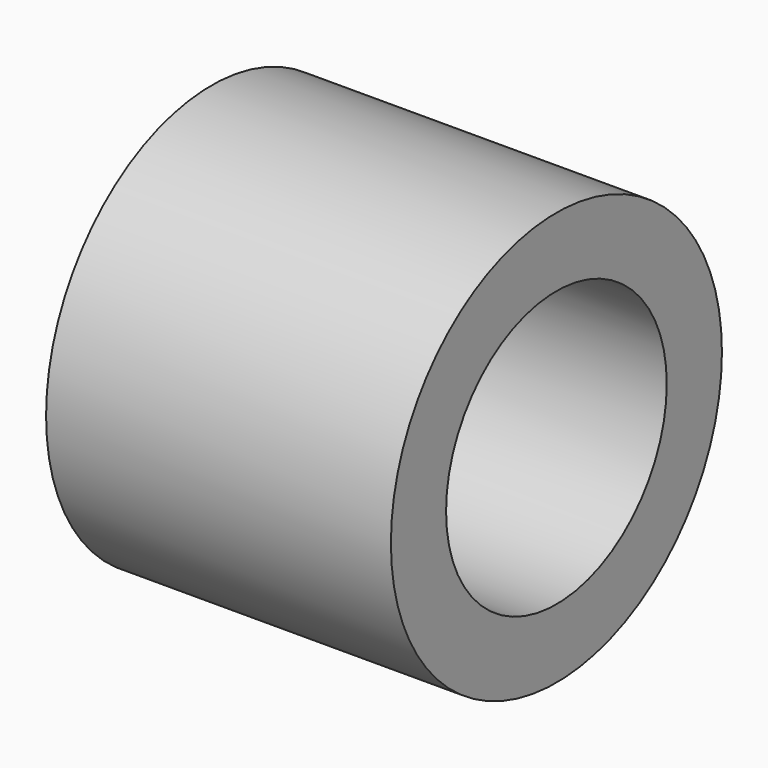
from build123d import *

# Parameters (mm, degrees)
F0_R     = 3
F1_DEPTH = 5
F2_T     = -1


with BuildPart() as f1:
    # F0 (on Right) → F1 (new body)
    with BuildSketch(Plane.YZ):
        Circle(F0_R)
    extrude(amount=-F1_DEPTH)

    # F2
    f2_openings = [f1.faces().sort_by_distance(p)[0] for p in [
        (0, 0, 0),
        (-5, 0, 0),
    ]]
    offset(amount=F2_T, openings=f2_openings)


solid = f1.part
